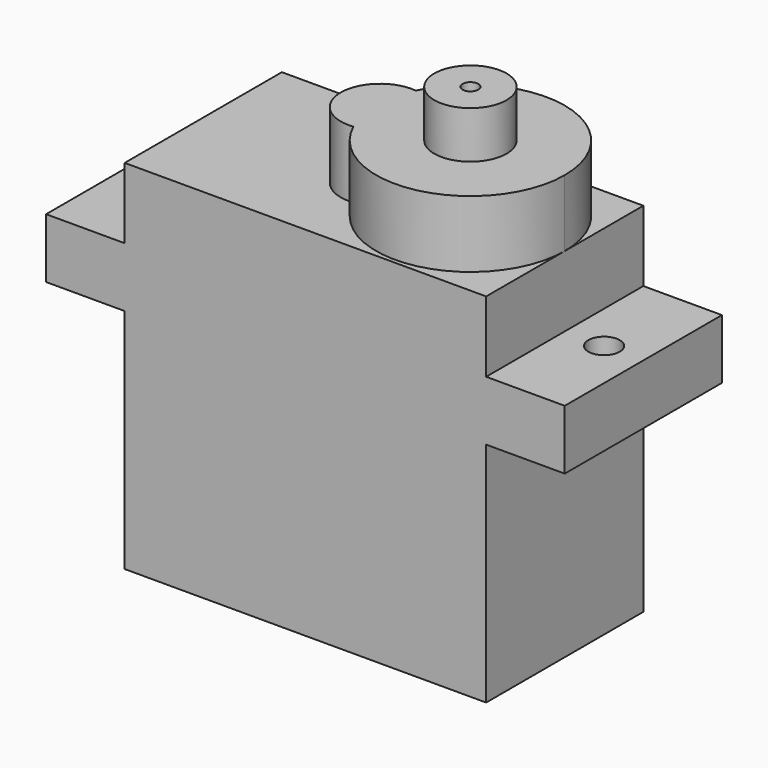
from build123d import *

# Parameters (mm, degrees)
F0_R     = 2.3
F0_R_2   = 0.5
F1_DEPTH = 22.75
F2_DEPTH = 4.25
F3_DEPTH = 7.25
F4_START = -4.5
F0_R_3   = 1
F4_DEPTH = 3.8
F5_START = -4.5
F0_W     = 5
F0_H     = 12.5
F5_DEPTH = 3.8
F6_DEPTH = 5.5


with BuildPart() as f1:
    # F0 (on Top) → F1 (new body)
    with BuildSketch(Plane.XY):
        Polygon((-11.5, -6.25), (11.5, -6.25), (11.5, 0), (11.5, 6.25), (-11.5, 6.25), align=None)
        with BuildLine():
            ThreePointArc((0.0380434783, 2.4833507514), (6.7704843308, 5.8639465861), (11.5, 0))
            ThreePointArc((11.5, 0), (6.7704843308, -5.8639465861), (0.0380434783, -2.4833507514))
            ThreePointArc((0.0380434783, -2.4833507514), (-2.75, 0), (0.0380434783, 2.4833507514))
        make_face(mode=Mode.SUBTRACT)
        with BuildLine():
            ThreePointArc((0.0380434783, -2.4833507514), (-0.5, 0), (0.0380434783, 2.4833507514))
            ThreePointArc((0.0380434783, 2.4833507514), (-2.75, 0), (0.0380434783, -2.4833507514))
        make_face()
        with BuildLine():
            ThreePointArc((2.25, 0), (1.6168300265, 1.6628125728), (0.0380434783, 2.4833507514))
            ThreePointArc((0.0380434783, 2.4833507514), (-0.5, 0), (0.0380434783, -2.4833507514))
            ThreePointArc((0.0380434783, -2.4833507514), (1.6168300265, -1.6628125728), (2.25, 0))
        make_face()
        with BuildLine():
            ThreePointArc((0.0380434783, -2.4833507514), (6.7704843308, -5.8639465861), (11.5, 0))
            ThreePointArc((11.5, 0), (6.7704843308, 5.8639465861), (0.0380434783, 2.4833507514))
            ThreePointArc((0.0380434783, 2.4833507514), (1.6168300265, 1.6628125728), (2.25, 0))
            ThreePointArc((2.25, 0), (1.6168300265, -1.6628125728), (0.0380434783, -2.4833507514))
        make_face()
        with Locations((5.5, 0)):
            Circle(F0_R, mode=Mode.SUBTRACT)
        with Locations((5.5, 0)):
            Circle(F0_R)
        with Locations((5.5, 0)):
            Circle(F0_R_2, mode=Mode.SUBTRACT)
    extrude(amount=-F1_DEPTH)

    # F0 (on Top) → F2 (join)
    with BuildSketch(Plane.XY):
        with BuildLine():
            ThreePointArc((0.0380434783, -2.4833507514), (6.7704843308, -5.8639465861), (11.5, 0))
            ThreePointArc((11.5, 0), (6.7704843308, 5.8639465861), (0.0380434783, 2.4833507514))
            ThreePointArc((0.0380434783, 2.4833507514), (1.6168300265, 1.6628125728), (2.25, 0))
            ThreePointArc((2.25, 0), (1.6168300265, -1.6628125728), (0.0380434783, -2.4833507514))
        make_face()
        with Locations((5.5, 0)):
            Circle(F0_R, mode=Mode.SUBTRACT)
        with Locations((5.5, 0)):
            Circle(F0_R)
        with Locations((5.5, 0)):
            Circle(F0_R_2, mode=Mode.SUBTRACT)
        with BuildLine():
            ThreePointArc((2.25, 0), (1.6168300265, 1.6628125728), (0.0380434783, 2.4833507514))
            ThreePointArc((0.0380434783, 2.4833507514), (-0.5, 0), (0.0380434783, -2.4833507514))
            ThreePointArc((0.0380434783, -2.4833507514), (1.6168300265, -1.6628125728), (2.25, 0))
        make_face()
        with BuildLine():
            ThreePointArc((0.0380434783, -2.4833507514), (-0.5, 0), (0.0380434783, 2.4833507514))
            ThreePointArc((0.0380434783, 2.4833507514), (-2.75, 0), (0.0380434783, -2.4833507514))
        make_face()
    extrude(amount=F2_DEPTH)

    # F0 (on Top) → F3 (join)
    with BuildSketch(Plane.XY):
        with Locations((5.5, 0)):
            Circle(F0_R)
        with Locations((5.5, 0)):
            Circle(F0_R_2, mode=Mode.SUBTRACT)
    extrude(amount=F3_DEPTH)

    # F0 (on Top) → F4 (join)
    with BuildSketch(Plane.XY.offset(F4_START)):
        Polygon((11.5, 0), (11.5, -6.25), (16.5, -6.25), (16.5, 6.25), (11.5, 6.25), align=None)
        with Locations((14, 0)):
            Circle(F0_R_3, mode=Mode.SUBTRACT)
    extrude(amount=-F4_DEPTH)

    # F0 (on Top) → F5 (join)
    with BuildSketch(Plane.XY.offset(F5_START)):
        with Locations((-14, 0)):
            Rectangle(F0_W, F0_H)
        with Locations((-14, 0)):
            Circle(F0_R_3, mode=Mode.SUBTRACT)
    extrude(amount=-F5_DEPTH)

    # F0 (on Top) → F6 (join)
    with BuildSketch(Plane.XY):
        with Locations((5.5, 0)):
            Circle(F0_R_2)
    extrude(amount=-F6_DEPTH)


solid = f1.part
